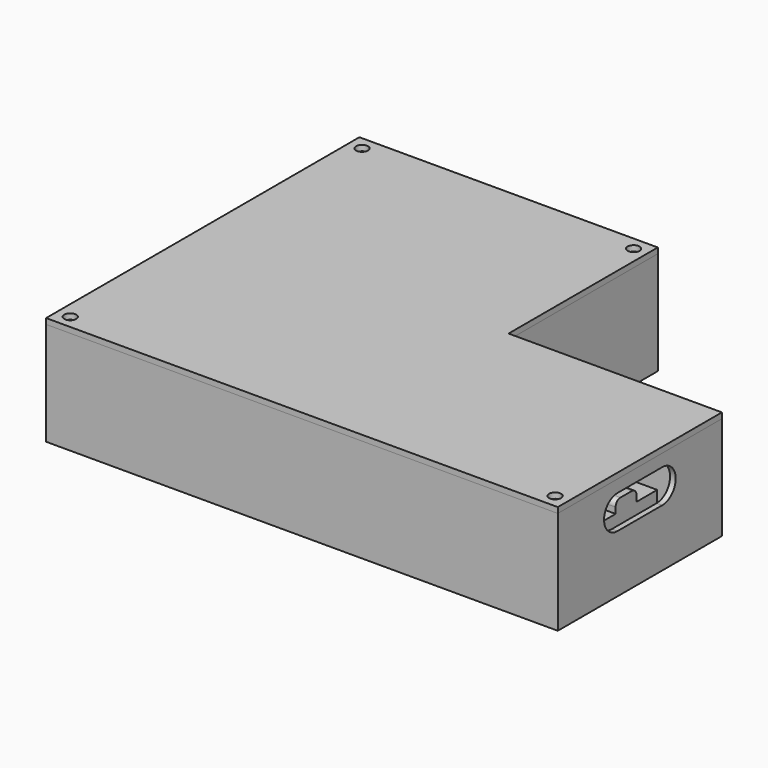
from build123d import *

# Parameters (mm, degrees)
SKETCH012_W             = 25.9
SKETCH012_H             = 9.2
SKETCH012_R             = 1.3
PAD012_DEPTH            = 1.7
BODY004_PLACEMENT_ANGLE = 90
SKETCH017_W             = 32.7
SKETCH017_H             = 16.1
SKETCH017_R             = 1.8
PAD017_DEPTH            = 1.7
SKETCH018_W             = 11.9
SKETCH018_H             = 16.1
PAD018_DEPTH            = 11.94
SKETCH042_W             = 4
SKETCH042_H             = 16.1
PAD032_DEPTH            = 2.5
SKETCH002_W             = 50.5
SKETCH002_H             = 16.4
PAD002_DEPTH            = 1.7
SKETCH003_W             = 10
SKETCH003_H             = 16.4
PAD003_DEPTH            = 11.7
SKETCH004_W             = 22
SKETCH004_H             = 14.4
PAD004_DEPTH            = 2.3
SKETCH010_W             = 47.1
SKETCH010_H             = 13
PAD010_DEPTH            = 2
SKETCH013_W             = 53.8
SKETCH013_H             = 36.8
SKETCH013_R             = 1.275
PAD013_DEPTH            = 1.7
SKETCH014_W             = 52.9
SKETCH014_H             = 20.9
PAD014_DEPTH            = 10.6
SKETCH015_W             = 7
SKETCH015_H             = 7
PAD015_DEPTH            = 3.2
FILLET_R                = 1.6
SKETCH016_W             = 53.8
SKETCH016_H             = 8.2
PAD016_DEPTH            = 2.5
BODY005_PLACEMENT_ANGLE = 180
SKETCH_W                = 65.2
SKETCH_H                = 32.9
SKETCH_R                = 1.3
PAD_DEPTH               = 1.7
SKETCH001_W             = 55.2
SKETCH001_H             = 22.9
PAD001_DEPTH            = 19.7
SKETCH011_W             = 55.2
SKETCH011_H             = 32.9
PAD011_DEPTH            = 2.4
PAD033_DEPTH            = 7.7
PAD034_DEPTH            = 20
SKETCH047_W             = 65.2
SKETCH047_H             = 32.9
SKETCH047_W_2           = 32.7
SKETCH047_H_2           = 16.1
SKETCH047_W_3           = 35.2
SKETCH047_H_3           = 20.2
SKETCH047_W_4           = 9.2
SKETCH047_H_4           = 25.9
SKETCH047_W_5           = 50.5
SKETCH047_H_5           = 16.4
SKETCH047_W_6           = 56.8
SKETCH047_H_6           = 17
SKETCH047_W_7           = 57.2
SKETCH047_H_7           = 36.8
POCKET_DEPTH            = 1.7
SKETCH048_W             = 55.2
SKETCH048_H             = 32.9
SKETCH048_W_2           = 5
SKETCH048_H_2           = 16.1
SKETCH048_H_3           = 16.4
SKETCH048_W_3           = 46.8
SKETCH048_H_4           = 17
SKETCH048_W_4           = 57.2
SKETCH048_H_5           = 10
POCKET001_DEPTH         = 6.2
SKETCH049_R             = 1
HOLE_DEPTH              = 6.2
POCKET002_DEPTH         = 6.2
POCKET003_DEPTH         = 1.5
POCKET004_DEPTH         = 1.5
POCKET005_DEPTH         = 1.5
SKETCH055_R             = 2
HOLE001_DEPTH           = 10
HOLE001_TIPS_R          = 2
SKETCH032_W             = 20.2
SKETCH032_H             = 40.2
SKETCH032_R             = 0.9
PAD025_DEPTH            = 1.7
SKETCH005_W             = 56.8
SKETCH005_H             = 17
PAD005_DEPTH            = 1.7
SKETCH006_W             = 7.5
SKETCH006_H             = 17
PAD006_DEPTH            = 10
SKETCH008_W             = 8
SKETCH008_H             = 17
PAD008_DEPTH            = 10
CHAMFER_SIZE2           = 2
CHAMFER_SIZE            = 4
CHAMFER001_SIZE2        = 2
CHAMFER001_SIZE         = 4
SKETCH009_W             = 52.8
SKETCH009_H             = 13
PAD009_DEPTH            = 2
SKETCH037_W             = 19.8
SKETCH037_H             = 17
PAD028_DEPTH            = 17.1
PAD035_DEPTH            = 1.5
PAD036_DEPTH            = 1.5
SKETCH059_R             = 1.6
HOLE002_DEPTH           = 25


with BuildPart() as ads1115:
    # Sketch012 → Pad012 (new body)
    with BuildSketch(Plane.XY):
        with Locations((12.95, 4.6)):
            Rectangle(SKETCH012_W, SKETCH012_H)
        with Locations((2.6, 2.3)):
            Circle(SKETCH012_R, mode=Mode.SUBTRACT)
        with Locations((23.4, 2.3)):
            Circle(SKETCH012_R, mode=Mode.SUBTRACT)
    extrude(amount=PAD012_DEPTH)


with BuildPart() as ads1115_1:
    # Body004 placement: moved
    add(ads1115.part.moved(Location((69.3, 99.7, -1.7))).rotate(Axis((69.3, 99.7, -1.7), (0, 0, -1)), BODY004_PLACEMENT_ANGLE))


with BuildPart() as max6675:
    # Sketch017 → Pad017 (new body)
    with BuildSketch(Plane.XY):
        with Locations((16.35, 8.05)):
            Rectangle(SKETCH017_W, SKETCH017_H)
        with Locations((16.7, 8.05)):
            Circle(SKETCH017_R, mode=Mode.SUBTRACT)
    extrude(amount=PAD017_DEPTH)

    # Sketch018 (on Face7 of Pad017) → Pad018 (join)
    with BuildSketch(Plane.XY.offset(1.7)):
        with Locations((5.95, 8.05)):
            Rectangle(SKETCH018_W, SKETCH018_H)
    extrude(amount=PAD018_DEPTH)

    # Sketch042 (on Face4 of Pad018) → Pad032 (join)
    with BuildSketch(Plane(origin=(0, 0, 0), x_dir=(1, 0, 0), z_dir=(0, 0, -1))):
        with Locations((2, -8.05)):
            Rectangle(SKETCH042_W, SKETCH042_H)
        with Locations((30.7, -8.05)):
            Rectangle(SKETCH042_W, SKETCH042_H)
    extrude(amount=PAD032_DEPTH)


with BuildPart() as max6675_1:
    # Body006 placement: moved
    add(max6675.part.moved(Location((1.5, 41.7, -1.7))))


with BuildPart() as dimmer:
    # Sketch002 → Pad002 (new body)
    with BuildSketch(Plane.XY):
        with Locations((25.25, 8.2)):
            Rectangle(SKETCH002_W, SKETCH002_H)
    extrude(amount=PAD002_DEPTH)

    # Sketch003 (on Face6 of Pad002) → Pad003 (join)
    with BuildSketch(Plane.XY.offset(1.7)):
        with Locations((5, 8.2)):
            Rectangle(SKETCH003_W, SKETCH003_H)
    extrude(amount=PAD003_DEPTH)

    # Sketch004 (on Face6 of Pad003) → Pad004 (join)
    with BuildSketch(Plane.XY.offset(1.7)):
        with Locations((21, 8.2)):
            Rectangle(SKETCH004_W, SKETCH004_H)
    extrude(amount=PAD004_DEPTH)

    # Sketch010 (on Face4 of Pad004) → Pad010 (join)
    with BuildSketch(Plane(origin=(0, 0, 0), x_dir=(1, 0, 0), z_dir=(0, 0, -1))):
        with Locations((25.25, -8.2)):
            Rectangle(SKETCH010_W, SKETCH010_H)
    extrude(amount=PAD010_DEPTH)


with BuildPart() as dimmer_1:
    # Body002 placement: moved
    add(dimmer.part.moved(Location((1.5, 24, -1.7))))


with BuildPart() as obj1:
    # Sketch013 → Pad013 (new body)
    with BuildSketch(Plane.XY):
        with Locations((30.3, 18.4)):
            Rectangle(SKETCH013_W, SKETCH013_H)
        with Locations((9.45, 18.4)):
            Circle(SKETCH013_R, mode=Mode.SUBTRACT)
        with Locations((51.15, 18.4)):
            Circle(SKETCH013_R, mode=Mode.SUBTRACT)
    extrude(amount=PAD013_DEPTH)

    # Sketch014 (on Face8 of Pad013) → Pad014 (join)
    with BuildSketch(Plane.XY.offset(1.7)):
        with Locations((26.45, 18.4)):
            Rectangle(SKETCH014_W, SKETCH014_H)
    extrude(amount=PAD014_DEPTH)

    # Sketch015 (on Face16 of Pad014) → Pad015 (join)
    with BuildSketch(Plane.XY.offset(12.3)):
        with Locations((3.5, 18.4)):
            Rectangle(SKETCH015_W, SKETCH015_H)
    extrude(amount=PAD015_DEPTH)

    # Fillet
    fillet_edges = [obj1.edges().sort_by_distance(p)[0] for p in [
        (3.5, 14.9, 15.5),
        (3.5, 21.9, 15.5),
    ]]
    fillet(fillet_edges, radius=FILLET_R)

    # Sketch016 (on Face19 of Fillet) → Pad016 (join)
    with BuildSketch(Plane(origin=(0, 0, 0), x_dir=(1, 0, 0), z_dir=(0, 0, -1))):
        with Locations((30.3, -8.1)):
            Rectangle(SKETCH016_W, SKETCH016_H)
        with Locations((30.3, -28.7)):
            Rectangle(SKETCH016_W, SKETCH016_H)
    extrude(amount=PAD016_DEPTH)


with BuildPart() as obj1_1:
    # Body005 placement: moved
    add(obj1.part.moved(Location((135.5, 43.4, -1.7))).rotate(Axis((135.5, 43.4, -1.7), (0, 0, 1)), BODY005_PLACEMENT_ANGLE))


with BuildPart() as psu:
    # Sketch → Pad (new body)
    with BuildSketch(Plane.XY):
        with Locations((32.6, 16.45)):
            Rectangle(SKETCH_W, SKETCH_H)
        with Locations((2.5, 28.7)):
            Circle(SKETCH_R, mode=Mode.SUBTRACT)
        with Locations((61.7, 28.7)):
            Circle(SKETCH_R, mode=Mode.SUBTRACT)
        with Locations((2.5, 3.5)):
            Circle(SKETCH_R, mode=Mode.SUBTRACT)
        with Locations((61.7, 3.5)):
            Circle(SKETCH_R, mode=Mode.SUBTRACT)
    extrude(amount=PAD_DEPTH)

    # Sketch001 (on Face10 of Pad) → Pad001 (join)
    with BuildSketch(Plane.XY.offset(1.7)):
        with Locations((32.6, 16.45)):
            Rectangle(SKETCH001_W, SKETCH001_H)
    extrude(amount=PAD001_DEPTH)

    # Sketch011 (on Face4 of Pad001) → Pad011 (join)
    with BuildSketch(Plane(origin=(0, 0, 0), x_dir=(1, 0, 0), z_dir=(0, 0, -1))):
        with Locations((32.6, -16.45)):
            Rectangle(SKETCH011_W, SKETCH011_H)
    extrude(amount=PAD011_DEPTH)


with BuildPart() as psu_1:
    # Body001 placement: moved
    add(psu.part.moved(Location((1.5, 66.7, -1.7))))


with BuildPart() as body:
    # Sketch045 → Pad033 (new body)
    with BuildSketch(Plane.XY):
        Polygon((0, 0), (0, 105), (80, 105), (80, 55), (137.2, 55), (137.2, 0), align=None)
    extrude(amount=-PAD033_DEPTH)

    # Sketch046 → Pad034 (join)
    with BuildSketch(Plane.XY):
        Polygon((0, 0), (0, 105), (80, 105), (80, 55), (137.2, 55), (137.2, 0), align=None)
        with BuildLine():
            Line((1.5, 97.8), (1.5, 7.2))
            Line((1.5, 7.2), (3.6, 7.2))
            ThreePointArc((7.2, 3.6), (6.145584, 6.145584), (3.6, 7.2))
            Line((7.2, 1.5), (7.2, 3.6))
            Line((7.2, 1.5), (130, 1.5))
            Line((130, 1.5), (130, 3.6))
            ThreePointArc((133.599982, 7.2), (131.054409, 6.145578), (130, 3.6))
            Line((133.599982, 7.2), (135.7, 7.2))
            Line((135.7, 7.2), (135.7, 51))
            ThreePointArc((135.7, 51), (134.967767, 52.767767), (133.2, 53.5))
            Line((133.2, 53.5), (78.5, 53.5))
            Line((78.5, 97.8), (78.5, 53.5))
            Line((76.399982, 97.8), (78.5, 97.8))
            ThreePointArc((72.8, 101.4), (73.854409, 98.854422), (76.399982, 97.8))
            Line((72.8, 101.4), (72.8, 103.5))
            Line((72.8, 103.5), (7.2, 103.5))
            Line((7.2, 103.5), (7.2, 101.4))
            ThreePointArc((3.6, 97.8), (6.145584, 98.854416), (7.2, 101.4))
            Line((1.5, 97.8), (3.6, 97.8))
        make_face(mode=Mode.SUBTRACT)
    extrude(amount=PAD034_DEPTH)

    # Sketch047 → Pocket (cut)
    with BuildSketch(Plane.XY):
        with Locations((34.1, 81.35)):
            Rectangle(SKETCH047_W, SKETCH047_H)
        with Locations((17.85, 51.65)):
            Rectangle(SKETCH047_W_2, SKETCH047_H_2)
        with Locations((53.3, 53.7)):
            Rectangle(SKETCH047_W_3, SKETCH047_H_3)
        with Locations((73.9, 84.85)):
            Rectangle(SKETCH047_W_4, SKETCH047_H_4)
        with Locations((26.75, 33.9)):
            Rectangle(SKETCH047_W_5, SKETCH047_H_5)
        with Locations((29.9, 15.7)):
            Rectangle(SKETCH047_W_6, SKETCH047_H_6)
        with Locations((107.1, 27.5)):
            Rectangle(SKETCH047_W_7, SKETCH047_H_7)
    extrude(amount=-POCKET_DEPTH, mode=Mode.SUBTRACT)

    # Sketch048 → Pocket001 (cut)
    with BuildSketch(Plane.XY):
        with Locations((34.1, 81.35)):
            Rectangle(SKETCH048_W, SKETCH048_H)
        with Locations((4, 51.65)):
            Rectangle(SKETCH048_W_2, SKETCH048_H_2)
        with Locations((31.7, 51.65)):
            Rectangle(SKETCH048_W_2, SKETCH048_H_2)
        with Locations((4, 33.9)):
            Rectangle(SKETCH048_W_2, SKETCH048_H_3)
        with Locations((49.5, 33.9)):
            Rectangle(SKETCH048_W_2, SKETCH048_H_3)
        with Locations((29.9, 15.7)):
            Rectangle(SKETCH048_W_3, SKETCH048_H_4)
        with Locations((107.1, 17.1)):
            Rectangle(SKETCH048_W_4, SKETCH048_H_5)
        with Locations((107.1, 37.9)):
            Rectangle(SKETCH048_W_4, SKETCH048_H_5)
    extrude(amount=-POCKET001_DEPTH, mode=Mode.SUBTRACT)

    # Sketch049 → Hole (cut)
    with BuildSketch(Plane.XY):
        with Locations((4, 68.4)):
            Circle(SKETCH049_R)
        with Locations((63.2, 68.4)):
            Circle(SKETCH049_R)
        with Locations((63.2, 94.3)):
            Circle(SKETCH049_R)
        with Locations((71.6, 74.45)):
            Circle(SKETCH049_R)
        with Locations((71.6, 95.25)):
            Circle(SKETCH049_R)
        with Locations((17.85, 51.65)):
            Circle(SKETCH049_R)
        with Locations((86.25, 27.5)):
            Circle(SKETCH049_R)
        with Locations((127.95, 27.5)):
            Circle(SKETCH049_R)
        with Locations((4, 94.3)):
            Circle(SKETCH049_R)
        with Locations((41.5, 4.35)):
            Circle(SKETCH049_R)
        with Locations((38.461076, 46.178574)):
            Circle(SKETCH049_R)
        with Locations((68.138925, 46.178574)):
            Circle(SKETCH049_R)
    extrude(amount=-HOLE_DEPTH, mode=Mode.SUBTRACT)

    # Sketch050 → Pocket002 (cut)
    with BuildSketch(Plane.XY):
        with BuildLine():
            Line((1.5, 64.9), (66.7, 64.9))
            Line((66.7, 64.9), (66.7, 71.9))
            Line((66.7, 71.9), (78.5, 71.9))
            Line((78.5, 71.9), (78.5, 53.5))
            Line((78.5, 53.5), (133.2, 53.5))
            ThreePointArc((135.7, 51), (134.967767, 52.767767), (133.2, 53.5))
            Line((135.7, 51), (135.7, 45.9))
            Line((135.7, 45.9), (78.5, 45.9))
            Line((78.5, 45.9), (78.5, 9.1))
            Line((78.5, 9.1), (135.7, 9.1))
            Line((135.7, 7.2), (135.7, 9.1))
            Line((135.7, 7.2), (133.599982, 7.2))
            ThreePointArc((133.599982, 7.2), (131.054409, 6.145578), (130, 3.6))
            Line((130, 1.5), (130, 3.6))
            Line((130, 1.5), (58.3, 1.5))
            Line((58.3, 1.5), (58.3, 24.2))
            Line((58.3, 24.2), (52, 24.2))
            Line((52, 24.2), (52, 42.1))
            Line((52, 42.1), (70.9, 42.1))
            Line((70.9, 42.1), (70.9, 63.8))
            Line((70.9, 63.8), (34.2, 63.8))
            Line((34.2, 63.8), (34.2, 59.7))
            Line((34.2, 59.7), (1.5, 59.7))
            Line((1.5, 59.7), (1.5, 64.9))
        make_face()
    extrude(amount=-POCKET002_DEPTH, mode=Mode.SUBTRACT)

    # Sketch052 → Pocket003 (cut)
    with BuildSketch(Plane.YZ):
        with BuildLine():
            Line((11.7, 8), (19.7, 8))
            ThreePointArc((20.7, 7), (20.407107, 7.707107), (19.7, 8))
            Line((20.7, 7), (20.7, 2))
            ThreePointArc((19.7, 1), (20.407107, 1.292893), (20.7, 2))
            Line((19.7, 1), (11.7, 1))
            ThreePointArc((10.7, 2), (10.992893, 1.292893), (11.7, 1))
            Line((10.7, 2), (10.7, 7))
            ThreePointArc((11.7, 8), (10.992893, 7.707107), (10.7, 7))
        make_face()
        with BuildLine():
            Line((29.9, 8), (37.9, 8))
            ThreePointArc((38.9, 7), (38.607107, 7.707107), (37.9, 8))
            Line((38.9, 7), (38.9, 2))
            ThreePointArc((37.9, 1), (38.607107, 1.292893), (38.9, 2))
            Line((37.9, 1), (29.9, 1))
            ThreePointArc((28.9, 2), (29.192893, 1.292893), (29.9, 1))
            Line((28.9, 2), (28.9, 7))
            ThreePointArc((29.9, 8), (29.192893, 7.707107), (28.9, 7))
        make_face()
        with BuildLine():
            Line((44.6, 13.64), (58.7, 13.64))
            ThreePointArc((59.7, 12.64), (59.407107, 13.347107), (58.7, 13.64))
            Line((59.7, 12.64), (59.7, 6))
            ThreePointArc((58.7, 5), (59.407107, 5.292893), (59.7, 6))
            Line((58.7, 5), (44.6, 5))
            ThreePointArc((43.6, 6), (43.892893, 5.292893), (44.6, 5))
            Line((43.6, 6), (43.6, 12.64))
            ThreePointArc((44.6, 13.64), (43.892893, 13.347107), (43.6, 12.64))
        make_face()
        with BuildLine():
            ThreePointArc((86.8, 13.5), (86.092893, 13.207107), (85.8, 12.5))
            Line((85.8, 7.5), (85.8, 12.5))
            ThreePointArc((85.8, 7.5), (86.092893, 6.792893), (86.8, 6.5))
            Line((96.8, 6.5), (86.8, 6.5))
            ThreePointArc((96.8, 6.5), (97.507107, 6.792893), (97.8, 7.5))
            Line((97.8, 12.5), (97.8, 7.5))
            ThreePointArc((97.8, 12.5), (97.507107, 13.207107), (96.8, 13.5))
            Line((86.8, 13.5), (96.8, 13.5))
        make_face()
    extrude(amount=POCKET003_DEPTH, mode=Mode.SUBTRACT)

    # Sketch053 (on Face46 of Pocket003) → Pocket004 (cut)
    with BuildSketch(Plane(origin=(0, 55, 0), x_dir=(-1, 0, 0), z_dir=(0, 1, 0))):
        with BuildLine():
            ThreePointArc((-86.5, 10), (-84.25, 7.75), (-82, 10))
            Line((-82, 10), (-82, 20))
            Line((-82, 20), (-86.5, 20))
            Line((-86.5, 20), (-86.5, 17.464102))
            ThreePointArc((-86.5, 14), (-85.5, 15.732051), (-86.5, 17.464102))
            Line((-86.5, 14), (-86.5, 10))
        make_face()
        with BuildLine():
            ThreePointArc((-96.5, 10), (-94.25, 7.75), (-92, 10))
            Line((-92, 10), (-92, 20))
            Line((-92, 20), (-96.5, 20))
            Line((-96.5, 20), (-96.5, 17.464102))
            ThreePointArc((-96.5, 14), (-95.5, 15.732051), (-96.5, 17.464102))
            Line((-96.5, 14), (-96.5, 10))
        make_face()
        with BuildLine():
            ThreePointArc((-106.5, 10), (-104.25, 7.75), (-102, 10))
            Line((-102, 10), (-102, 20))
            Line((-102, 20), (-106.5, 20))
            Line((-106.5, 20), (-106.5, 17.464102))
            ThreePointArc((-106.5, 14), (-105.5, 15.732051), (-106.5, 17.464102))
            Line((-106.5, 14), (-106.5, 10))
        make_face()
        with BuildLine():
            ThreePointArc((-116.5, 10), (-114.25, 7.75), (-112, 10))
            Line((-112, 10), (-112, 20))
            Line((-112, 20), (-116.5, 20))
            Line((-116.5, 20), (-116.5, 17.464102))
            ThreePointArc((-116.5, 14), (-115.5, 15.732051), (-116.5, 17.464102))
            Line((-116.5, 14), (-116.5, 10))
        make_face()
        with BuildLine():
            ThreePointArc((-126.5, 10), (-124.25, 7.75), (-122, 10))
            Line((-122, 10), (-122, 20))
            Line((-122, 20), (-126.5, 20))
            Line((-126.5, 20), (-126.5, 17.464102))
            ThreePointArc((-126.5, 14), (-125.5, 15.732051), (-126.5, 17.464102))
            Line((-126.5, 14), (-126.5, 10))
        make_face()
    extrude(amount=-POCKET004_DEPTH, mode=Mode.SUBTRACT)

    # Sketch054 (on Face44 of Pocket004) → Pocket005 (cut)
    with BuildSketch(Plane.YZ.offset(137.2)):
        with BuildLine():
            ThreePointArc((20, 16.7), (15.5, 12.2), (20, 7.7))
            Line((20, 7.7), (35, 7.7))
            ThreePointArc((35, 7.7), (39.5, 12.2), (35, 16.7))
            Line((35, 16.7), (20, 16.7))
        make_face()
    extrude(amount=-POCKET005_DEPTH, mode=Mode.SUBTRACT)

    # Sketch055 (on DatumPlane) → Hole001 (cut)
    with BuildSketch(Plane.XY.offset(20)):
        with Locations((3.6, 101.4)):
            Circle(SKETCH055_R)
        with Locations((76.4, 101.4)):
            Circle(SKETCH055_R)
        with Locations((133.6, 3.6)):
            Circle(SKETCH055_R)
        with Locations((3.6, 3.6)):
            Circle(SKETCH055_R)
    extrude(amount=-HOLE001_DEPTH, mode=Mode.SUBTRACT)

    # Hole001 tips → Hole001 tip 1 section 0
    with BuildSketch(Plane.XY.offset(10), mode=Mode.PRIVATE) as hole001_tip_1_s0:
        with Locations((3.6, 101.4)):
            Circle(HOLE001_TIPS_R)
    loft([hole001_tip_1_s0.sketch, Vertex(3.6, 101.4, 8.798279)], mode=Mode.SUBTRACT)

    # Hole001 tips → Hole001 tip 2 section 0
    with BuildSketch(Plane.XY.offset(10), mode=Mode.PRIVATE) as hole001_tip_2_s0:
        with Locations((76.4, 101.4)):
            Circle(HOLE001_TIPS_R)
    loft([hole001_tip_2_s0.sketch, Vertex(76.4, 101.4, 8.798279)], mode=Mode.SUBTRACT)

    # Hole001 tips → Hole001 tip 3 section 0
    with BuildSketch(Plane.XY.offset(10), mode=Mode.PRIVATE) as hole001_tip_3_s0:
        with Locations((133.6, 3.6)):
            Circle(HOLE001_TIPS_R)
    loft([hole001_tip_3_s0.sketch, Vertex(133.6, 3.6, 8.798279)], mode=Mode.SUBTRACT)

    # Hole001 tips → Hole001 tip 4 section 0
    with BuildSketch(Plane.XY.offset(10), mode=Mode.PRIVATE) as hole001_tip_4_s0:
        with Locations((3.6, 3.6)):
            Circle(HOLE001_TIPS_R)
    loft([hole001_tip_4_s0.sketch, Vertex(3.6, 3.6, 8.798279)], mode=Mode.SUBTRACT)


with BuildPart() as proto_board:
    # Sketch032 → Pad025 (new body)
    with BuildSketch(Plane.XY):
        with Locations((10.1, 20.1)):
            Rectangle(SKETCH032_W, SKETCH032_H)
        with Locations((2, 2)):
            Circle(SKETCH032_R, mode=Mode.SUBTRACT)
        with Locations((18.2, 2)):
            Circle(SKETCH032_R, mode=Mode.SUBTRACT)
    extrude(amount=PAD025_DEPTH)


with BuildPart() as proto_board_1:
    # Body008 placement: moved
    add(proto_board.part.moved(Location((60, 1.5, 0))))


with BuildPart() as relay:
    # Sketch005 → Pad005 (new body)
    with BuildSketch(Plane.XY):
        with Locations((28.4, 8.5)):
            Rectangle(SKETCH005_W, SKETCH005_H)
    extrude(amount=PAD005_DEPTH)

    # Sketch006 (on Face6 of Pad005) → Pad006 (join)
    with BuildSketch(Plane.XY.offset(1.7)):
        with Locations((6.95, 8.5)):
            Rectangle(SKETCH006_W, SKETCH006_H)
    extrude(amount=PAD006_DEPTH)

    # Sketch008 (on Face6 of Pad005) → Pad008 (join)
    with BuildSketch(Plane.XY.offset(1.7)):
        with Locations((49.8, 8.5)):
            Rectangle(SKETCH008_W, SKETCH008_H)
    extrude(amount=PAD008_DEPTH)

    # Chamfer
    chamfer_edges = [relay.edges().sort_by_distance(p)[0] for p in [
        (10.7, 8.5, 11.7),
    ]]
    chamfer_side = relay.faces().sort_by_distance((10.7, 8.5, 6.7))[0]
    chamfer(chamfer_edges, length=CHAMFER_SIZE, length2=CHAMFER_SIZE2, reference=chamfer_side)

    # Chamfer001
    chamfer001_edges = [relay.edges().sort_by_distance(p)[0] for p in [
        (53.8, 8.5, 11.7),
    ]]
    chamfer001_side = relay.faces().sort_by_distance((53.8, 8.5, 6.7))[0]
    chamfer(chamfer001_edges, length=CHAMFER001_SIZE, length2=CHAMFER001_SIZE2, reference=chamfer001_side)

    # Sketch009 (on Face11 of Chamfer001) → Pad009 (join)
    with BuildSketch(Plane(origin=(0, 0, 0), x_dir=(1, 0, 0), z_dir=(0, 0, -1))):
        with Locations((28.4, -8.5)):
            Rectangle(SKETCH009_W, SKETCH009_H)
    extrude(amount=PAD009_DEPTH)

    # Sketch037 (on Face14 of Pad009) → Pad028 (join)
    with BuildSketch(Plane.XY.offset(1.7)):
        with Locations((20.6, 8.5)):
            Rectangle(SKETCH037_W, SKETCH037_H)
    extrude(amount=PAD028_DEPTH)


with BuildPart() as relay_1:
    # Body003 placement: moved
    add(relay.part.moved(Location((1.5, 5.5, -1.7))))


with BuildPart() as lid:
    # Sketch057 → Pad035 (new body)
    with BuildSketch(Plane.XY):
        Polygon((0, 0), (0, 105), (80, 105), (80, 55), (137.2, 55), (137.2, 0), align=None)
    extrude(amount=PAD035_DEPTH)

    # Sketch058 → Pad036 (join)
    with BuildSketch(Plane.XY):
        with BuildLine():
            ThreePointArc((7.4, 3.599976), (6.287006, 6.286982), (3.6, 7.399976))
            Line((1.7, 7.399976), (3.6, 7.399976))
            Line((1.7, 97.6), (1.7, 7.399976))
            Line((3.6, 97.6), (1.7, 97.6))
            ThreePointArc((3.6, 97.6), (6.287006, 98.712994), (7.4, 101.4))
            Line((7.4, 101.4), (7.4, 103.3))
            Line((7.4, 103.3), (72.6, 103.3))
            Line((72.6, 103.3), (72.6, 101.4))
            ThreePointArc((72.6, 101.4), (73.712994, 98.712994), (76.4, 97.6))
            Line((76.4, 97.6), (78.3, 97.6))
            Line((78.3, 97.6), (78.3, 53.3))
            Line((78.3, 53.3), (133.2, 53.3))
            ThreePointArc((135.5, 51), (134.826346, 52.626346), (133.2, 53.3))
            Line((135.5, 7.4), (135.5, 51))
            Line((133.6, 7.4), (135.5, 7.4))
            ThreePointArc((133.6, 7.4), (130.912994, 6.287006), (129.8, 3.6))
            Line((129.8, 1.7), (129.8, 3.6))
            Line((7.4, 1.7), (129.8, 1.7))
            Line((7.4, 3.599976), (7.4, 1.7))
        make_face()
        with BuildLine():
            ThreePointArc((8.9, 3.599976), (7.347666, 7.347642), (3.6, 8.899976))
            Line((3.6, 8.899976), (3.6, 96.1))
            ThreePointArc((3.6, 96.1), (7.347666, 97.652334), (8.9, 101.4))
            Line((8.9, 101.4), (71.1, 101.4))
            ThreePointArc((71.1, 101.4), (72.652334, 97.652334), (76.4, 96.1))
            Line((76.4, 96.1), (76.4, 51.4))
            Line((76.4, 51.4), (133.2, 51.4))
            ThreePointArc((133.6, 51), (133.482843, 51.282843), (133.2, 51.4))
            Line((133.6, 51), (133.6, 8.9))
            ThreePointArc((133.6, 8.9), (129.852334, 7.347666), (128.3, 3.6))
            Line((128.3, 3.6), (8.9, 3.599976))
        make_face(mode=Mode.SUBTRACT)
    extrude(amount=-PAD036_DEPTH)

    # Sketch059 → Hole002 (cut)
    with BuildSketch(Plane.XY):
        with Locations((3.6, 101.4)):
            Circle(SKETCH059_R)
        with Locations((76.4, 101.4)):
            Circle(SKETCH059_R)
        with Locations((3.6, 3.599976)):
            Circle(SKETCH059_R)
        with Locations((133.6, 3.6)):
            Circle(SKETCH059_R)
    extrude(amount=HOLE002_DEPTH, mode=Mode.SUBTRACT)


with BuildPart() as lid_1:
    # Body009 placement: moved
    add(lid.part.moved(Location((0, 0, 20))))


solid = Compound([ads1115_1.part, max6675_1.part, dimmer_1.part, obj1_1.part, psu_1.part, body.part, proto_board_1.part, relay_1.part, lid_1.part])
